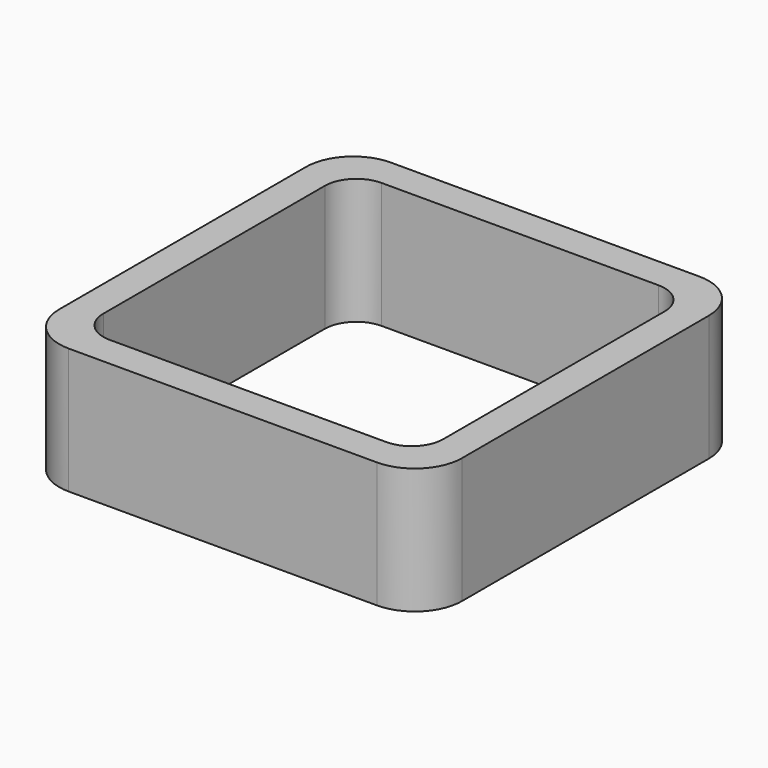
from build123d import *

# Parameters (mm, degrees)
EXTRUDE_DEPTH = 50


with BuildPart() as part:
    # Sketch → Extrude (new body)
    with BuildSketch(Plane.XY):
        with BuildLine():
            Line((-61.25, 80), (61.25, 80))
            ThreePointArc((80, 61.25), (74.508252, 74.508252), (61.25, 80))
            Line((80, 61.25), (80, -61.25))
            ThreePointArc((61.25, -80), (74.508252, -74.508252), (80, -61.25))
            Line((61.25, -80), (-61.25, -80))
            ThreePointArc((-80, -61.25), (-74.508252, -74.508252), (-61.25, -80))
            Line((-80, -61.25), (-80, 61.25))
            ThreePointArc((-61.25, 80), (-74.508252, 74.508252), (-80, 61.25))
        make_face()
        with BuildLine():
            Line((-55, 67.5), (55, 67.5))
            ThreePointArc((67.5, 55), (63.838835, 63.838835), (55, 67.5))
            Line((67.5, 55), (67.5, -55))
            ThreePointArc((55, -67.5), (63.838835, -63.838835), (67.5, -55))
            Line((55, -67.5), (-55, -67.5))
            ThreePointArc((-67.5, -55), (-63.838835, -63.838835), (-55, -67.5))
            Line((-67.5, -55), (-67.5, 55))
            ThreePointArc((-55, 67.5), (-63.838835, 63.838835), (-67.5, 55))
        make_face(mode=Mode.SUBTRACT)
    extrude(amount=EXTRUDE_DEPTH)


solid = part.part
